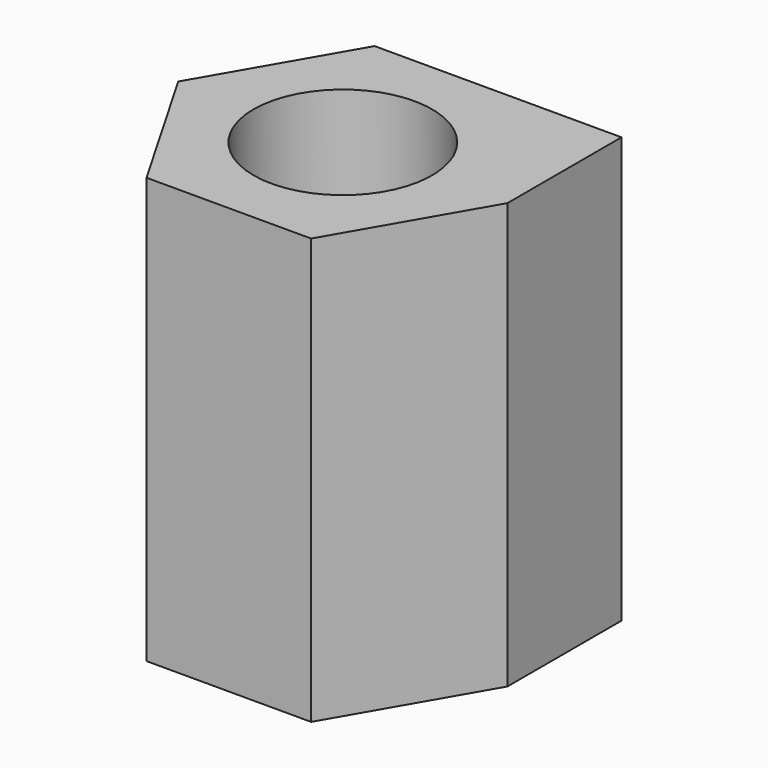
from build123d import *

# Parameters (mm, degrees)
F0_R     = 5.334
F1_DEPTH = 25.4


with BuildPart() as f1:
    # F0 (on Top) → F1 (new body)
    with BuildSketch(Plane.XY):
        Polygon((4.912673, 8.509), (-4.912673, 8.509), (-9.825347, 0), (-4.912673, -8.509), (4.912673, -8.509), (9.825347, 0), align=None)
        Circle(F0_R, mode=Mode.SUBTRACT)
        Polygon((9.825347, 8.509), (4.912673, 8.509), (9.825347, 0), align=None)
        Circle(F0_R)
    extrude(amount=F1_DEPTH)

    # F2 (on Front) → F3 (revolve, cut)
    with BuildSketch(Plane.XZ):
        with BuildLine():
            Line((-2.921, 5.08), (-2.921, 0))
            Line((-2.921, 0), (0, 0))
            Line((0, 0), (0, 28.878784))
            Line((0, 28.878784), (-5.334, 28.878784))
            Line((-5.334, 28.878784), (-5.334, 9.543106))
            ThreePointArc((-5.334, 9.543106), (-4.69213, 7.006283), (-2.921, 5.08))
        make_face()
    revolve(axis=Axis((0, 0, 14.439392), (0, 0, -1)), mode=Mode.SUBTRACT)


solid = f1.part
